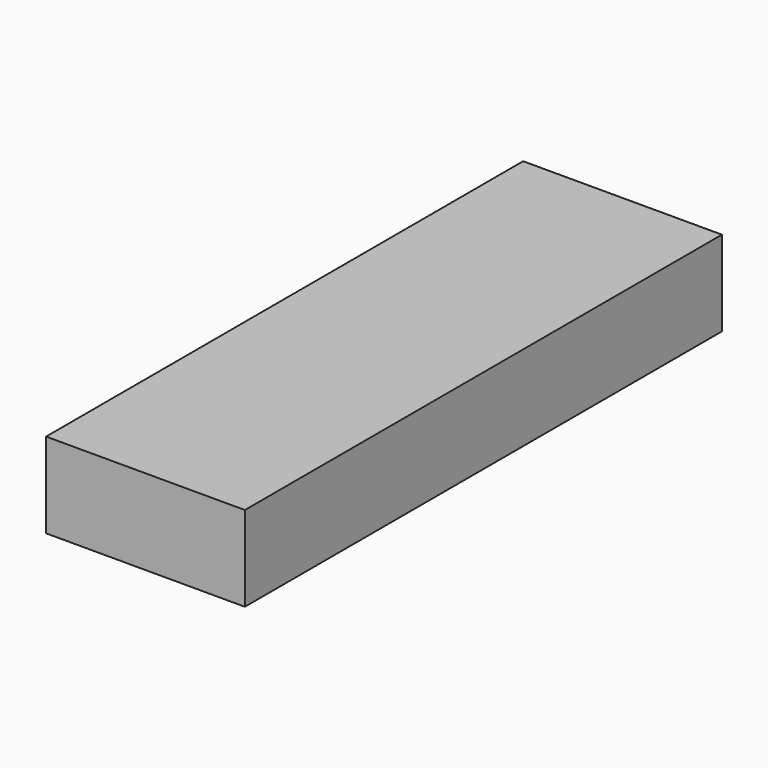
from build123d import *

# Parameters (mm, degrees)
F0_W     = 136.1323334277
F0_H     = 35.306327045
F1_DEPTH = 88.9
F2_DEPTH = 2.794
F3_DEPTH = 130.556


with BuildPart() as f1:
    # F0 (on Right) → F1 (new body)
    with BuildSketch(Plane.YZ):
        with Locations((-7.6281111687, 17.6531635225)):
            Rectangle(F0_W, F0_H)
    extrude(amount=F1_DEPTH)

    # F2 (add): a face of the model
    f2_faces = [f1.faces().sort_by_distance(p)[0] for p in [
        (44.45, -7.6281111687, 35.306327045),
    ]]
    extrude(f2_faces, amount=F2_DEPTH)

    # F3 (add): a face of the model
    f3_faces = [f1.faces().sort_by_distance(p)[0] for p in [
        (44.45, -75.6942778826, 19.0501635225),
    ]]
    extrude(f3_faces, amount=F3_DEPTH)


solid = f1.part
